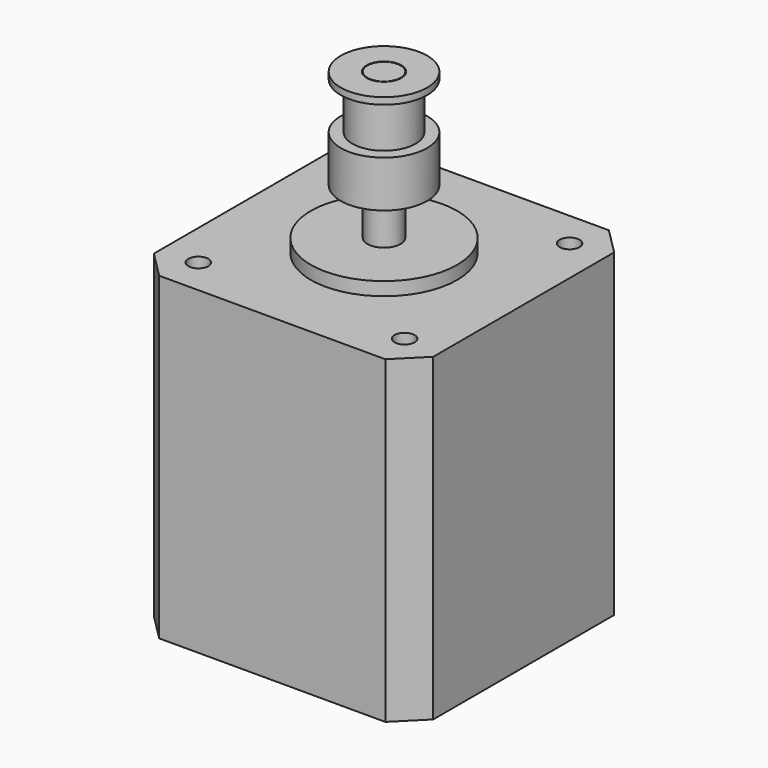
from build123d import *

# Parameters (mm, degrees)
F0_W     = 42
F0_H     = 42
F1_DEPTH = 48
F2_SIZE  = 4
F3_R     = 2.5
F4_DEPTH = 24
F3_R_2   = 11
F5_DEPTH = 2
F3_R_3   = 1.5
F6_DEPTH = 5


with BuildPart() as f1:
    # F0 (on Top) → F1 (new body)
    with BuildSketch(Plane.XY):
        Rectangle(F0_W, F0_H)
    extrude(amount=F1_DEPTH)

    # F2
    f2_edges = [f1.edges().sort_by_distance(p)[0] for p in [
        (-21, -21, 24),
        (21, -21, 24),
        (21, 21, 24),
        (-21, 21, 24),
    ]]
    chamfer(f2_edges, length=F2_SIZE)

    # F3 (on face) → F4 (join)
    with BuildSketch(Plane.XY.offset(48)):
        Circle(F3_R)
    extrude(amount=F4_DEPTH)

    # F3 (on face) → F5 (join)
    with BuildSketch(Plane.XY.offset(48)):
        Circle(F3_R_2)
        Circle(F3_R, mode=Mode.SUBTRACT)
        Circle(F3_R)
    extrude(amount=F5_DEPTH)

    # F3 (on face) → F6 (cut)
    with BuildSketch(Plane.XY.offset(48)):
        with Locations((15.5, -15.5)):
            Circle(F3_R_3)
        with Locations((15.5, 15.5)):
            Circle(F3_R_3)
        with Locations((-15.5, 15.5)):
            Circle(F3_R_3)
        with Locations((-15.5, -15.5)):
            Circle(F3_R_3)
    extrude(amount=-F6_DEPTH, mode=Mode.SUBTRACT)


with BuildPart() as f8:
    # F7 (on Front) → F8 (revolve)
    with BuildSketch(Plane.XZ):
        Polygon((2.6, 57), (6.5, 57), (6.5, 64), (4.75, 64), (4.75, 71), (6.5, 71), (6.5, 72), (2.6, 72), align=None)
        Polygon((2.6, 57), (6.5, 57), (6.5, 64), (4.75, 64), (4.75, 71), (6.5, 71), (6.5, 72), (2.6, 72), align=None)
    revolve(axis=Axis((0, 0, 77), (0, 0, 1)))


solid = Compound([f1.part, f8.part])
